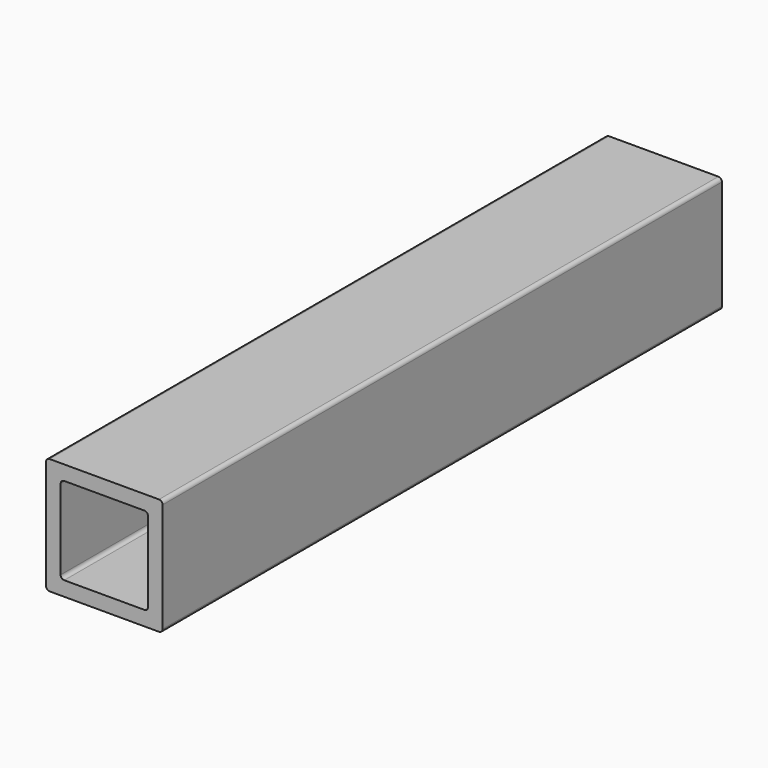
from build123d import *

# Parameters (mm, degrees)
F1_DEPTH = 304.8


with BuildPart() as f1:
    # F0 (on Front) → F1 (new body)
    with BuildSketch(Plane.XZ):
        with BuildLine():
            Line((-80.893943, 1.265308), (-33.243543, 1.265308))
            ThreePointArc((-33.243543, 1.265308), (-32.129991, 1.726557), (-31.668743, 2.840108))
            Line((-31.668743, 2.840108), (-31.668743, 50.490508))
            ThreePointArc((-31.668743, 50.490508), (-32.129991, 51.60406), (-33.243543, 52.065308))
            Line((-33.243543, 52.065308), (-80.893943, 52.065308))
            ThreePointArc((-80.893943, 52.065308), (-82.007495, 51.60406), (-82.468743, 50.490508))
            Line((-82.468743, 50.490508), (-82.468743, 2.840108))
            ThreePointArc((-82.468743, 2.840108), (-82.007495, 1.726557), (-80.893943, 1.265308))
        make_face()
        with BuildLine():
            Line((-39.593543, 7.615308), (-74.543943, 7.615308))
            ThreePointArc((-74.543943, 7.615308), (-75.657495, 8.076557), (-76.118743, 9.190108))
            Line((-76.118743, 9.190108), (-76.118743, 44.140508))
            ThreePointArc((-76.118743, 44.140508), (-75.657495, 45.25406), (-74.543943, 45.715308))
            Line((-74.543943, 45.715308), (-39.593543, 45.715308))
            ThreePointArc((-39.593543, 45.715308), (-38.479991, 45.25406), (-38.018743, 44.140508))
            Line((-38.018743, 44.140508), (-38.018743, 9.190108))
            ThreePointArc((-38.018743, 9.190108), (-38.479991, 8.076557), (-39.593543, 7.615308))
        make_face(mode=Mode.SUBTRACT)
    extrude(amount=F1_DEPTH)


solid = f1.part
